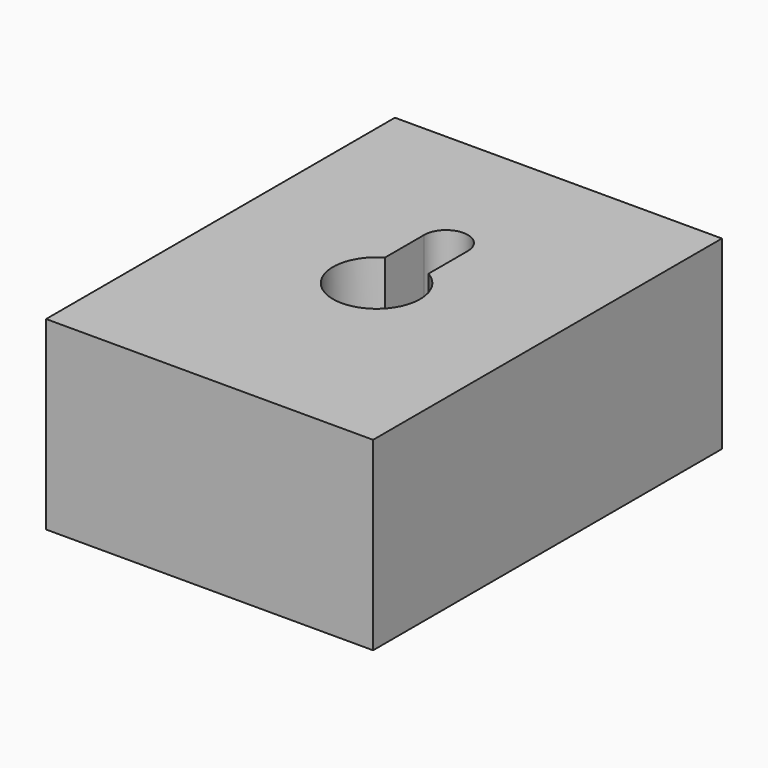
from build123d import *

# Parameters (mm, degrees)
F0_W     = 30
F0_H     = 40
F1_DEPTH = 17
F3_DEPTH = 15
F4_W     = 16.507677
F4_H     = 19.664884
F5_DEPTH = 10


with BuildPart() as f1:
    # F0 (on Top) → F1 (new body)
    with BuildSketch(Plane.XY):
        with Locations((15, 20)):
            Rectangle(F0_W, F0_H)
    extrude(amount=F1_DEPTH)

    # F2 (on face) → F3 (cut)
    with BuildSketch(Plane.XY.offset(17)):
        with BuildLine():
            Line((13, 27.113265), (13, 22.613265))
            ThreePointArc((13, 22.613265), (15, 15.149164), (17, 22.613265))
            Line((17, 22.613265), (17, 27.113265))
            ThreePointArc((17, 27.113265), (15, 29.113265), (13, 27.113265))
        make_face()
    extrude(amount=-F3_DEPTH, mode=Mode.SUBTRACT)

    # F4 (on face) → F5 (cut)
    with BuildSketch(Plane.XY.offset(2)):
        with Locations((15.471233, 21.540843)):
            Rectangle(F4_W, F4_H)
    extrude(amount=F5_DEPTH, mode=Mode.SUBTRACT)


solid = f1.part
